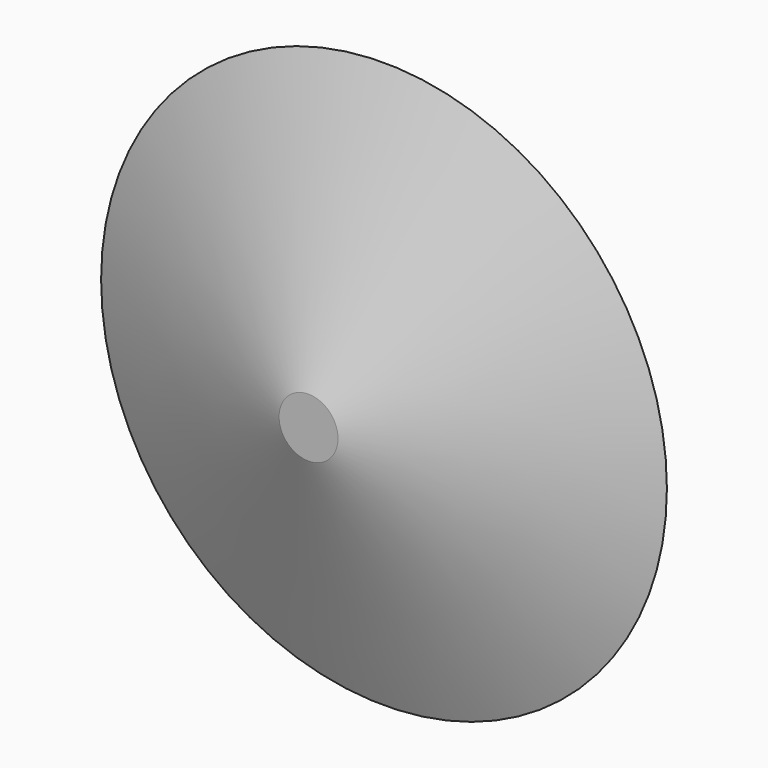
from build123d import *

# Parameters (mm, degrees)
F0_R     = 76.2
F2_R     = 7.9375
F4_R     = 17.4625
F4_R_2   = 11.1125
F5_DEPTH = 31.75


with BuildPart() as f3:
    # F0 (on Front) → F3 section 0
    with BuildSketch(Plane.XZ):
        Circle(F0_R)
    # F2 (on offset) → F3 section 1
    with BuildSketch(Plane.XZ.offset(25.4)):
        Circle(F2_R)
    loft()

    # F4 (on face) → F5 (join)
    with BuildSketch(Plane(origin=(0, 0, 0), x_dir=(-1, 0, 0), z_dir=(0, 1, 0))):
        Circle(F4_R)
        Circle(F4_R_2, mode=Mode.SUBTRACT)
    extrude(amount=F5_DEPTH)


solid = f3.part
